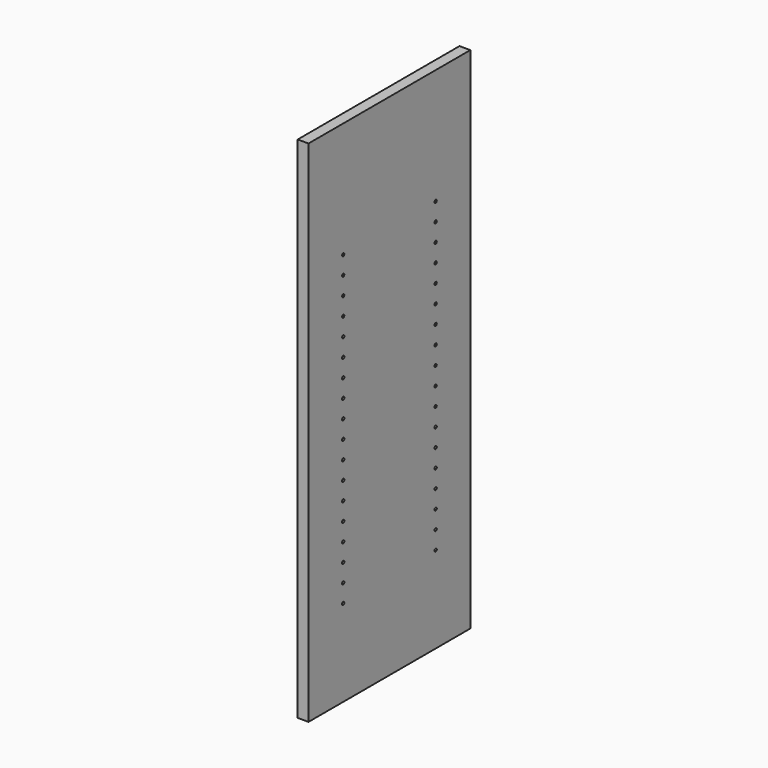
from build123d import *

# Parameters (mm, degrees)
F0_W     = 355.6
F0_H     = 895.35
F1_DEPTH = 19.05
F3_D     = 5.0038
F3_DEPTH = 14.224
F3_TIP   = 1.5032931827


with BuildPart() as f1:
    # F0 (on Right) → F1 (new body)
    with BuildSketch(Plane.YZ):
        Rectangle(F0_W, F0_H)
    extrude(amount=F1_DEPTH)

    # F3
    with Locations(Plane.YZ.offset(19.05)):
        with Locations((-101.6, 244.475), (-101.6, 212.725), (-101.6, 180.975), (-101.6, 149.225), (-101.6, 85.725), (-101.6, 53.975), (-101.6, 117.475), (-101.6, 22.225), (-101.6, -9.525), (-101.6, -73.025), (-101.6, -104.775), (-101.6, -136.525), (-101.6, -136.525), (-101.6, -168.275), (-101.6, -200.025), (-101.6, -231.775), (-101.6, -263.525), (-101.6, -295.275), (-101.6, -41.275), (101.6, 244.475), (101.6, 212.725), (101.6, 180.975), (101.6, 149.225), (101.6, 117.475), (101.6, 85.725), (101.6, 53.975), (101.6, 22.225), (101.6, -9.525), (101.6, -41.275), (101.6, -73.025), (101.6, -104.775), (101.6, -136.525), (101.6, -168.275), (101.6, -200.025), (101.6, -231.775), (101.6, -263.525), (101.6, -295.275)):
            Hole(F3_D / 2, depth=F3_DEPTH)
            with Locations((0, 0, -(F3_DEPTH + F3_TIP / 2))):  # 118° drill point
                Cone(0, F3_D / 2, F3_TIP, mode=Mode.SUBTRACT)


solid = f1.part
